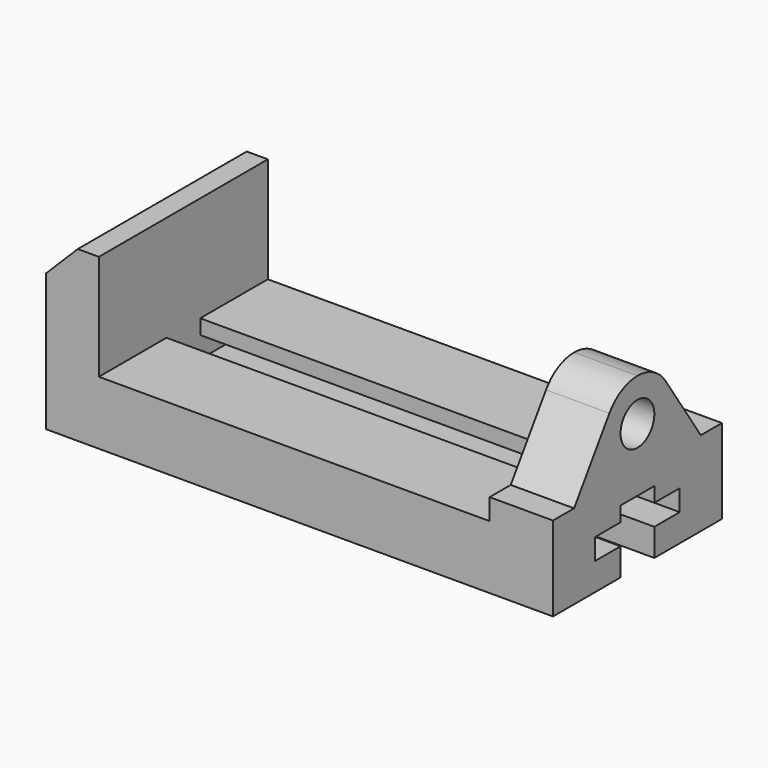
from build123d import *

# Parameters (mm, degrees)
F1_DEPTH = 127
F3_DEPTH = 38.1
F4_DEPTH = 273.05
F2_R     = 12.7
F5_DEPTH = 38.1


with BuildPart() as f1:
    # F0 (on Front) → F1 (new body)
    with BuildSketch(Plane.XZ):
        Polygon((31.75, 101.6), (19.05, 101.6), (0, 82.55), (0, 0), (304.8, 0), (304.8, 101.6), (266.7, 101.6), (266.7, 38.1), (31.75, 38.1), align=None)
    extrude(amount=-F1_DEPTH)

    # F2 (on face) → F3 (cut)
    with BuildSketch(Plane.YZ.offset(304.8)):
        with BuildLine():
            Line((0, 101.6), (0, 50.8))
            Line((0, 50.8), (15.875, 50.8))
            Line((15.875, 50.8), (42.406574, 90.350173))
            ThreePointArc((42.406574, 90.350173), (51.547059, 98.611765), (63.5, 101.6))
            Line((63.5, 101.6), (0, 101.6))
        make_face()
        with BuildLine():
            Line((127, 101.6), (63.5, 101.6))
            ThreePointArc((63.5, 101.6), (75.452941, 98.611765), (84.593426, 90.350173))
            Line((84.593426, 90.350173), (111.125, 50.8))
            Line((111.125, 50.8), (127, 50.8))
            Line((127, 50.8), (127, 101.6))
        make_face()
    extrude(amount=-F3_DEPTH, mode=Mode.SUBTRACT)

    # F2 (on face) → F4 (cut)
    with BuildSketch(Plane.YZ.offset(304.8)):
        Polygon((50.8, 16.51), (50.8, 0), (76.2, 0), (76.2, 16.51), (95.25, 16.51), (95.25, 29.21), (76.2, 29.21), (76.2, 38.1), (63.5, 38.1), (50.8, 38.1), (50.8, 29.21), (31.75, 29.21), (31.75, 16.51), align=None)
    extrude(amount=-F4_DEPTH, mode=Mode.SUBTRACT)

    # F2 (on face) → F5 (cut)
    with BuildSketch(Plane.YZ.offset(304.8)):
        with Locations((63.5, 76.2)):
            Circle(F2_R)
    extrude(amount=-F5_DEPTH, mode=Mode.SUBTRACT)


solid = f1.part
